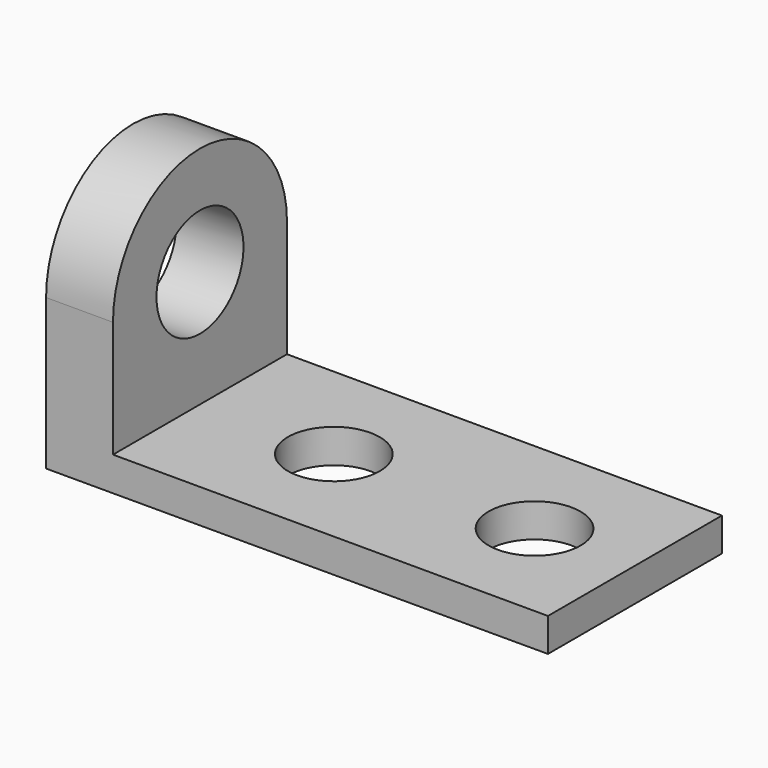
from build123d import *

# Parameters (mm, degrees)
F1_DEPTH = 82.55
F2_R     = 20.6375
F3_DEPTH = 152.4
F4_R     = 17.4625
F5_DEPTH = 25.4


with BuildPart() as f1:
    # F0 (on Front) → F1 (new body)
    with BuildSketch(Plane.XZ):
        Polygon((0, 114.3), (0, 0), (190.5, 0), (190.5, 12.7), (25.4, 12.9167754203), (25.4, 114.3), align=None)
    extrude(amount=F1_DEPTH)

    # F2 (on face) → F3 (cut)
    with BuildSketch(Plane(origin=(0, 0, 0), x_dir=(0, -1, 0), z_dir=(-1, 0, 0))):
        with Locations((41.275, 57.15)):
            Circle(F2_R)
        with BuildLine():
            Line((0, 114.3), (0, 57.15))
            ThreePointArc((0, 57.15), (41.275, 98.425), (82.55, 57.15))
            Line((82.55, 57.15), (82.55, 114.3))
            Line((82.55, 114.3), (0, 114.3))
        make_face()
    extrude(amount=-F3_DEPTH, mode=Mode.SUBTRACT)

    # F4 (on face) → F5 (cut)
    with BuildSketch(Plane(origin=(0.0170034164, 0, 12.9501031596), x_dir=(0.999999138, 0, -0.0013129935), z_dir=(0.0013129935, 0, 0.999999138))):
        with Locations((76.1831607755, -41.275)):
            Circle(F4_R)
        with Locations((152.3831607755, -41.275)):
            Circle(F4_R)
    extrude(amount=-F5_DEPTH, mode=Mode.SUBTRACT)


solid = f1.part
